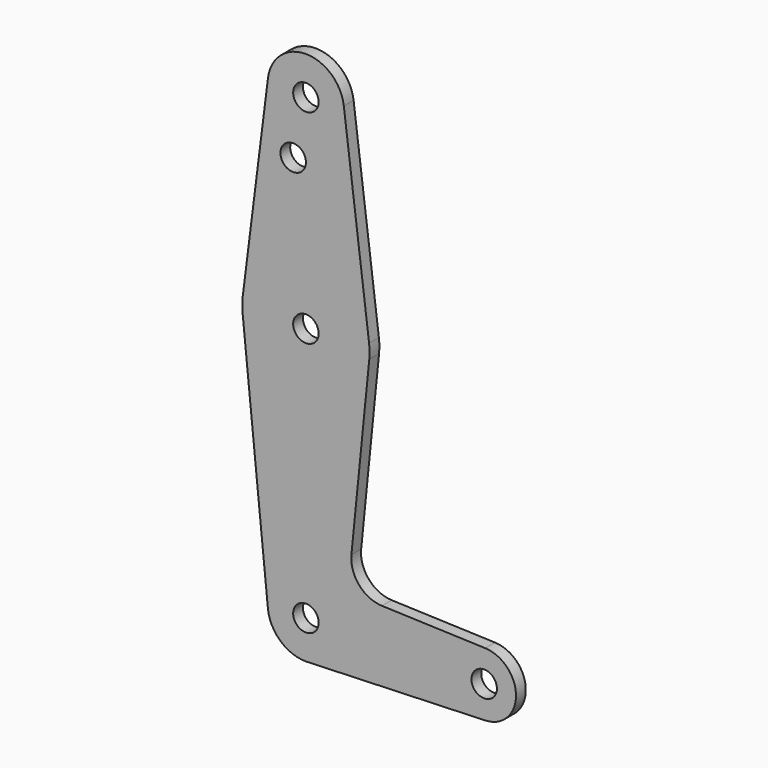
from build123d import *

# Parameters (mm, degrees)
F0_R     = 3.175
F1_DEPTH = 3.048


with BuildPart() as f1:
    # F0 (on Front) → F1 (new body)
    with BuildSketch(Plane.XZ):
        with BuildLine():
            Line((0.677344, -9.500886), (0, -9.525))
            ThreePointArc((0, -9.525), (0.338886, -9.51897), (0.677344, -9.500886))
        make_face()
        with BuildLine():
            Line((-15.795426, 61.9125), (-9.477255, -0.9525))
            ThreePointArc((-9.477255, -0.9525), (-6.389564, -7.063929), (0, -9.525))
            Line((0, -9.525), (0.677344, -9.500886))
            Line((0.677344, -9.500886), (44.732405, -7.932475))
            ThreePointArc((44.732405, -7.932475), (52.3875, 0), (44.732405, 7.932475))
            Line((44.732405, 7.932475), (18.968328, 8.849706))
            ThreePointArc((18.968328, 8.849706), (13.261204, 11.567463), (11.340836, 17.589892))
            Line((11.340836, 17.589892), (15.795426, 61.9125))
            ThreePointArc((15.795426, 61.9125), (15.873744, 63.699705), (15.750488, 65.484375))
            Line((15.750488, 65.484375), (9.450293, 115.490625))
            ThreePointArc((9.450293, 115.490625), (0, 123.825), (-9.450293, 115.490625))
            Line((-9.450293, 115.490625), (-15.750488, 65.484375))
            ThreePointArc((-15.750488, 65.484375), (-15.873744, 63.699705), (-15.795426, 61.9125))
        make_face()
        Circle(F0_R, mode=Mode.SUBTRACT)
        with Locations((44.45, 0)):
            Circle(F0_R, mode=Mode.SUBTRACT)
        with Locations((0, 63.5)):
            Circle(F0_R, mode=Mode.SUBTRACT)
        with Locations((-3.175, 100.0252)):
            Circle(F0_R, mode=Mode.SUBTRACT)
        with Locations((0, 114.3)):
            Circle(F0_R, mode=Mode.SUBTRACT)
    extrude(amount=F1_DEPTH)


solid = f1.part
